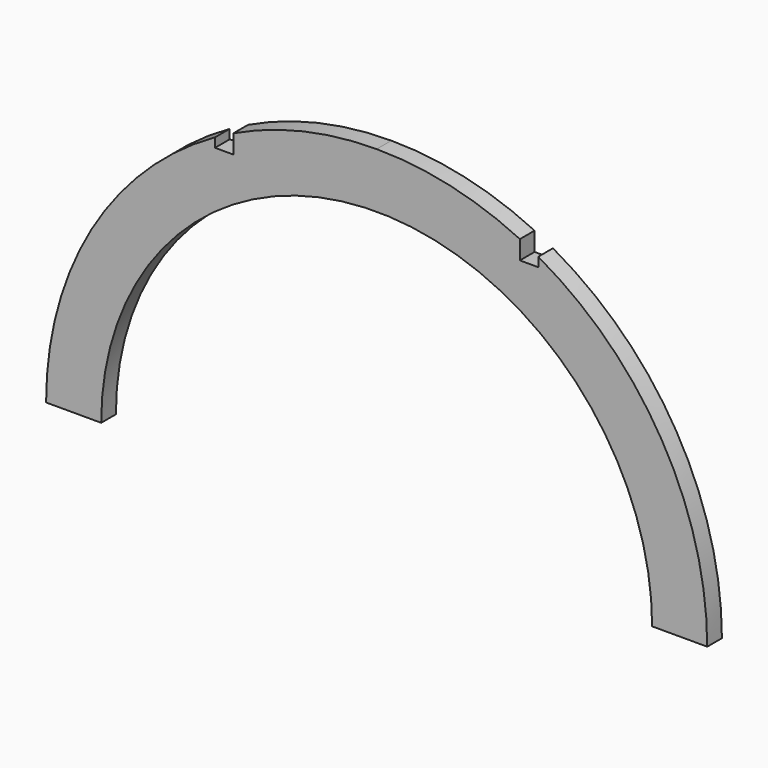
from build123d import *

# Parameters (mm, degrees)
F1_DEPTH = 6.35
F3_W     = 6.35
F3_H     = 6.35
F4_DEPTH = 17.78


with BuildPart() as f1:
    # F0 (on Front) → F1 (new body)
    with BuildSketch(Plane.XZ):
        with BuildLine():
            Line((95.25, 0), (114.3, 0))
            ThreePointArc((114.3, 0), (80.822305, 80.822305), (0, 114.3))
            ThreePointArc((0, 114.3), (-80.822305, 80.822305), (-114.3, 0))
            Line((-114.3, 0), (-95.25, 0))
            ThreePointArc((-95.25, 0), (0, 95.25), (95.25, 0))
        make_face()
    extrude(amount=F1_DEPTH)

    # F3 (on offset) → F4 (cut)
    with BuildSketch(Plane.XY.offset(114.3)):
        with Locations((-52.705, -3.175)):
            Rectangle(F3_W, F3_H)
        with Locations((52.705, -3.175)):
            Rectangle(F3_W, F3_H)
    extrude(amount=-F4_DEPTH, mode=Mode.SUBTRACT)


solid = f1.part
